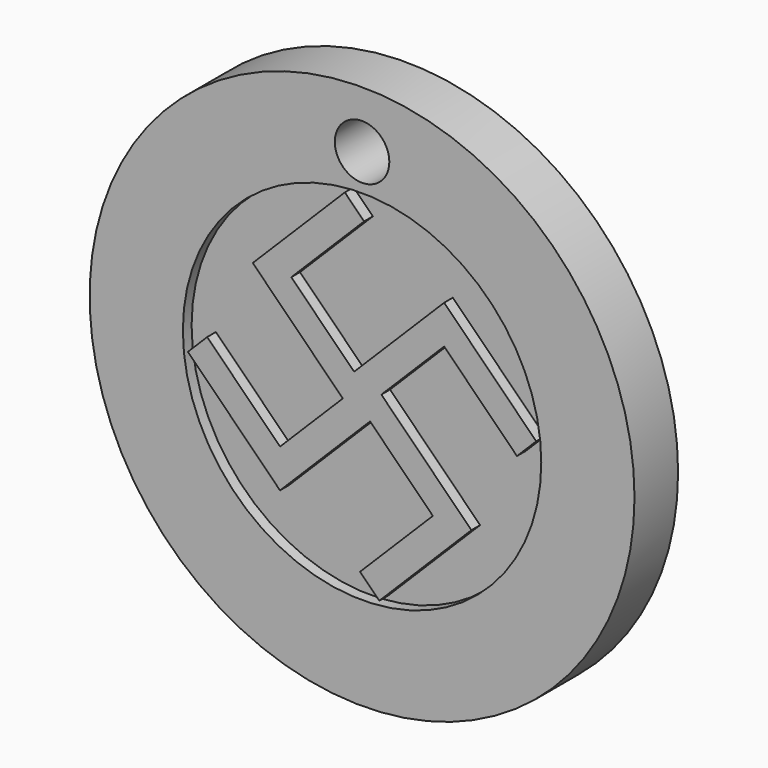
from build123d import *

# Parameters (mm, degrees)
F0_R     = 12.7
F0_R_2   = 8.353338
F0_R_3   = 1.27
F1_DEPTH = 2.54
F2_DEPTH = 2.032


with BuildPart() as f1:
    # F0 (on Front) → F1 (new body)
    with BuildSketch(Plane.XZ):
        Circle(F0_R)
        Circle(F0_R_2, mode=Mode.SUBTRACT)
        with Locations((0, 10.040995)):
            Circle(F0_R_3, mode=Mode.SUBTRACT)
        Polygon((-5.095589, 3.825589), (-0.898026, -0.371974), (-3.825589, -3.299538), (-7.219802, 0.094675), (-8.117828, -0.803351), (-3.825589, -5.095589), (0.371974, -0.898026), (3.299538, -3.825589), (-0.094675, -7.219802), (0.803351, -8.117828), (5.095589, -3.825589), (0.898026, 0.371974), (3.825589, 3.299538), (7.219802, -0.094675), (8.117828, 0.803351), (3.825589, 5.095589), (-0.371974, 0.898026), (-3.299538, 3.825589), (0.094675, 7.219802), (-0.803351, 8.117828), align=None)
    extrude(amount=F1_DEPTH)


with BuildPart() as f2:
    # F0 (on Front) → F2 (new body)
    with BuildSketch(Plane.XZ):
        Circle(F0_R_2)
        Polygon((-3.825589, -3.299538), (-0.898026, -0.371974), (-5.095589, 3.825589), (-0.803351, 8.117828), (0.094675, 7.219802), (-3.299538, 3.825589), (-0.371974, 0.898026), (3.825589, 5.095589), (8.117828, 0.803351), (7.219802, -0.094675), (3.825589, 3.299538), (0.898026, 0.371974), (5.095589, -3.825589), (0.803351, -8.117828), (-0.094675, -7.219802), (3.299538, -3.825589), (0.371974, -0.898026), (-3.825589, -5.095589), (-8.117828, -0.803351), (-7.219802, 0.094675), align=None, mode=Mode.SUBTRACT)
    extrude(amount=F2_DEPTH)


solid = Compound([f1.part, f2.part])
